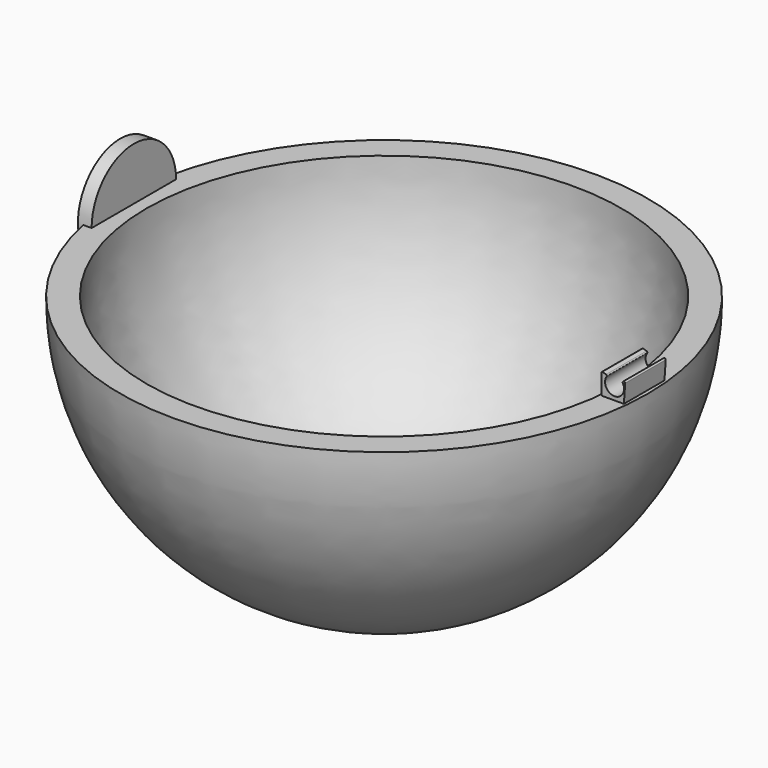
from build123d import *

# Parameters (mm, degrees)
F3_DEPTH = 6.096
F5_R     = 12.7
F6_DEPTH = 3.302


with BuildPart() as f1:
    # F0 (on Front) → F1 (revolve)
    with BuildSketch(Plane.XZ):
        with BuildLine():
            Line((-57.149999, 0), (-63.5, 0))
            ThreePointArc((-63.5, 0), (-44.901281, -44.901281), (0, -63.5))
            Line((0, -63.5), (0, -57.149999))
            ThreePointArc((0, -57.149999), (-40.411152, -40.411152), (-57.149999, 0))
        make_face()
    revolve(axis=Axis((0, 0, -60.325), (0, 0, -1)))

    # F2 (on Front) → F3 (join, symmetric)
    with BuildSketch(Plane.XZ):
        with BuildLine():
            Line((57.15, 0), (62.567949, 0))
            Line((62.567949, 0), (62.885554, 4.471582))
            ThreePointArc((62.885554, 4.471582), (62.799559, 4.680638), (62.581003, 4.738366))
            Line((62.581003, 4.738366), (62.461815, 4.713843))
            ThreePointArc((62.461815, 4.713843), (62.280828, 4.568062), (62.294203, 4.336049))
            ThreePointArc((62.294203, 4.336049), (60.251035, 0.890197), (58.435013, 4.460981))
            ThreePointArc((58.435013, 4.460981), (58.463671, 4.690811), (58.293892, 4.84835))
            Line((58.293892, 4.84835), (57.472877, 5.07965))
            ThreePointArc((57.472877, 5.07965), (57.250668, 5.037665), (57.15, 4.835167))
            Line((57.15, 4.835167), (57.15, 0))
        make_face()
    extrude(amount=F3_DEPTH, both=True)

    # F5 (on offset) → F6 (join)
    with BuildSketch(Plane.YZ.offset(-63.5)):
        Circle(F5_R)
    extrude(amount=F6_DEPTH)


solid = f1.part
